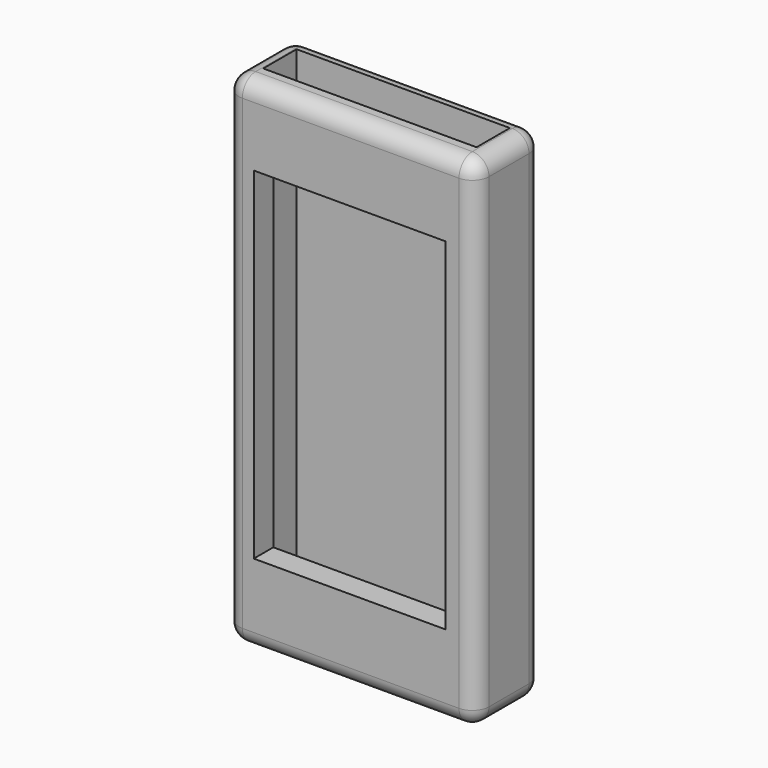
from build123d import *

# Parameters (mm, degrees)
F0_W     = 76.2
F0_H     = 152.4
F1_DEPTH = 25.4
F2_W     = 65.024
F2_H     = 12.7
F3_DEPTH = 136.525
F4_R     = 5.08
F5_W     = 58.42
F5_H     = 104.14
F6_DEPTH = 7.62


with BuildPart() as f1:
    # F0 (on Front) → F1 (new body)
    with BuildSketch(Plane.XZ):
        with Locations((2.724684, -0.652284)):
            Rectangle(F0_W, F0_H)
    extrude(amount=F1_DEPTH)

    # F2 (on face) → F3 (cut)
    with BuildSketch(Plane.XY.offset(75.547716)):
        with Locations((2.623657, -11.599738)):
            Rectangle(F2_W, F2_H)
    extrude(amount=-F3_DEPTH, mode=Mode.SUBTRACT)

    # F4
    f4_edges = [f1.edges().sort_by_distance(p)[0] for p in [
        (40.824684, -25.4, -0.652284),
        (40.824684, 0, -0.652284),
        (-35.375316, 0, -0.652284),
        (-35.375316, -25.4, -0.652284),
        (2.724684, -25.4, -76.852284),
        (-35.375316, -12.7, -76.852284),
        (40.824684, -12.7, -76.852284),
        (2.724684, 0, -76.852284),
        (2.724684, -25.4, 75.547716),
        (-35.375316, -12.7, 75.547716),
        (40.824684, -12.7, 75.547716),
        (2.724684, 0, 75.547716),
    ]]
    fillet(f4_edges, radius=F4_R)

    # F5 (on face) → F6 (cut)
    with BuildSketch(Plane.XZ.offset(25.4)):
        with Locations((2.397154, 0.125338)):
            Rectangle(F5_W, F5_H)
    extrude(amount=-F6_DEPTH, mode=Mode.SUBTRACT)


solid = f1.part
